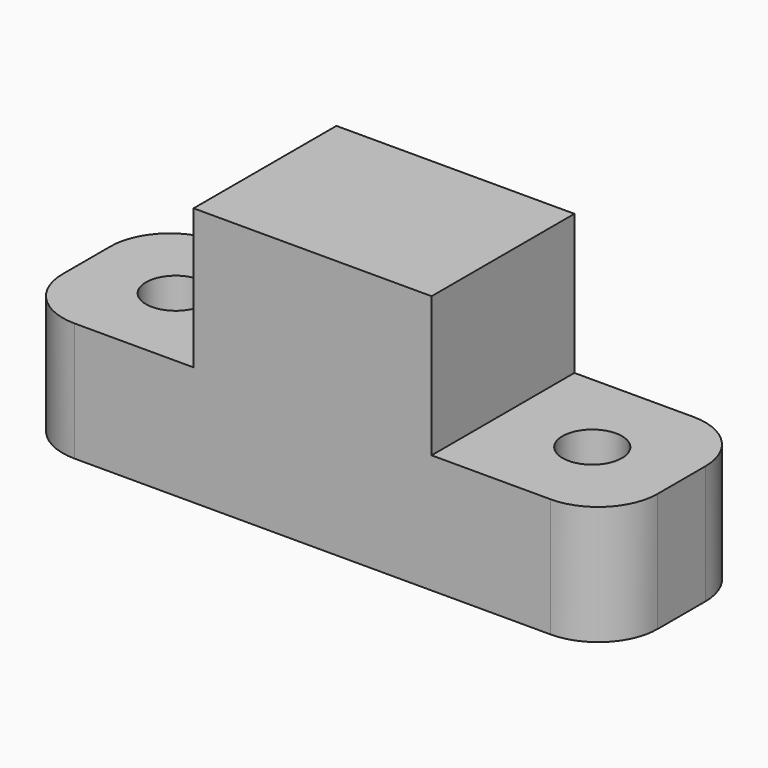
from build123d import *

# Parameters (mm, degrees)
F1_DEPTH = 19.05
F3_D     = 6.35
F4_R     = 6.35


with BuildPart() as f1:
    # F0 (on Front) → F1 (new body)
    with BuildSketch(Plane.XZ):
        Polygon((-19.05, 0), (0, 0), (12.7, 0), (12.7, 27.648715), (0, 27.648715), (0, 12.7), (-19.05, 12.7), align=None)
    extrude(amount=F1_DEPTH)

    # F3 (through all)
    with Locations(Plane.XY.offset(12.7)):
        with Locations((-9.525, -9.525)):
            Hole(F3_D / 2)

    # F4
    f4_edges = [f1.edges().sort_by_distance(p)[0] for p in [
        (-19.05, 0, 6.35),
        (-19.05, -19.05, 6.35),
    ]]
    fillet(f4_edges, radius=F4_R)

    # F5: F1 across face


with BuildPart() as f1_1:
    add(f1.part)
    add(f1.part.mirror(Plane(origin=(12.7, -9.525, 13.824358), x_dir=(0, 1, 0), z_dir=(1, 0, 0))))


solid = f1_1.part
